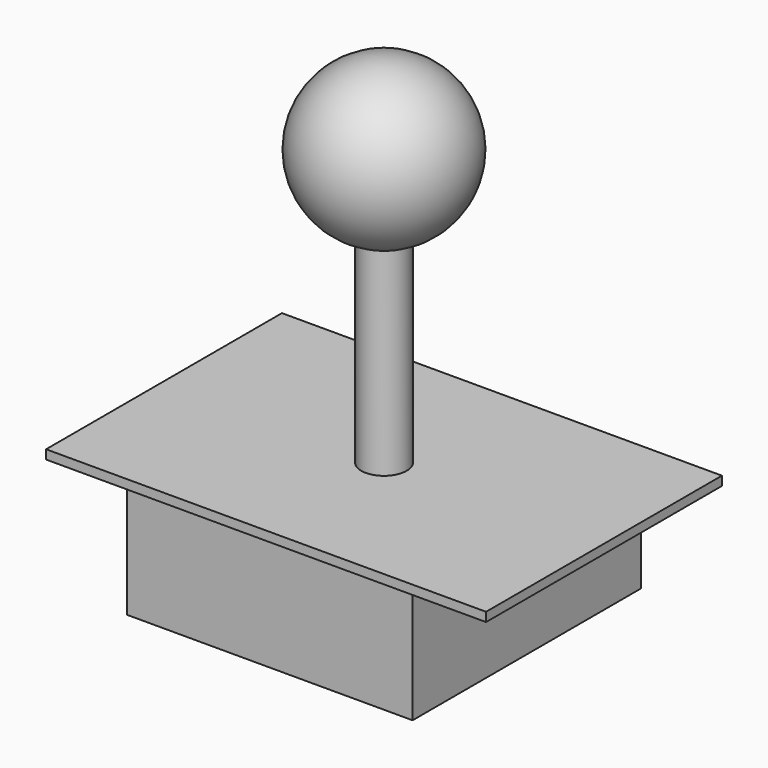
from build123d import *

# Parameters (mm, degrees)
F0_W     = 5
F0_H     = 44
F2_SIZE  = 1
F3_DEPTH = 32.5
F4_DEPTH = 31.5


with BuildPart() as f1:
    # F0 (on Front) → F1 (revolve)
    with BuildSketch(Plane.XZ):
        with Locations((-2.5, 36.5)):
            Rectangle(F0_W, F0_H)
        with BuildLine():
            Line((-5, 58.5), (0, 58.5))
            Line((0, 58.5), (0, 92.7705098312))
            ThreePointArc((0, 92.7705098312), (-17.3166671454, 77.7969775189), (-5, 58.5))
        make_face()
    revolve(axis=Axis((0, 0, 75.6352549156), (0, 0, -1)))

    # F0 (on Front) → F3 (join, symmetric)
    with BuildSketch(Plane.XZ):
        Polygon((-31.5, 12.5), (31.5, 12.5), (48.5, 12.5), (48.5, 14.5), (0, 14.5), (-5, 14.5), (-48.5, 14.5), (-48.5, 12.5), align=None)
    extrude(amount=F3_DEPTH, both=True)



with BuildPart() as f1b:
    # F0 (on Front) → F1, piece 2 (revolve)
    with BuildSketch(Plane.XZ):
        Polygon((0, -26.5), (0, -12.5), (-6, -12.5), (-6, -24.5), (-5, -24.5), (-5, -26.5), align=None)
    revolve(axis=Axis((0, 0, 75.6352549156), (0, 0, -1)))

    # F2
    f2_edges = [f1b.edges().sort_by_distance(p)[0] for p in [
        (5, 0, -26.5),
    ]]
    chamfer(f2_edges, length=F2_SIZE)


with BuildPart() as f1_1:
    add(f1.part)

    add(f1b.part)  # F4 merges F1b
    # F0 (on Front) → F4 (join, symmetric)
    with BuildSketch(Plane.XZ):
        Polygon((0, -12.5), (31.5, -12.5), (31.5, 12.5), (-31.5, 12.5), (-31.5, -12.5), (-6, -12.5), align=None)
    extrude(amount=F4_DEPTH, both=True)


solid = f1_1.part
